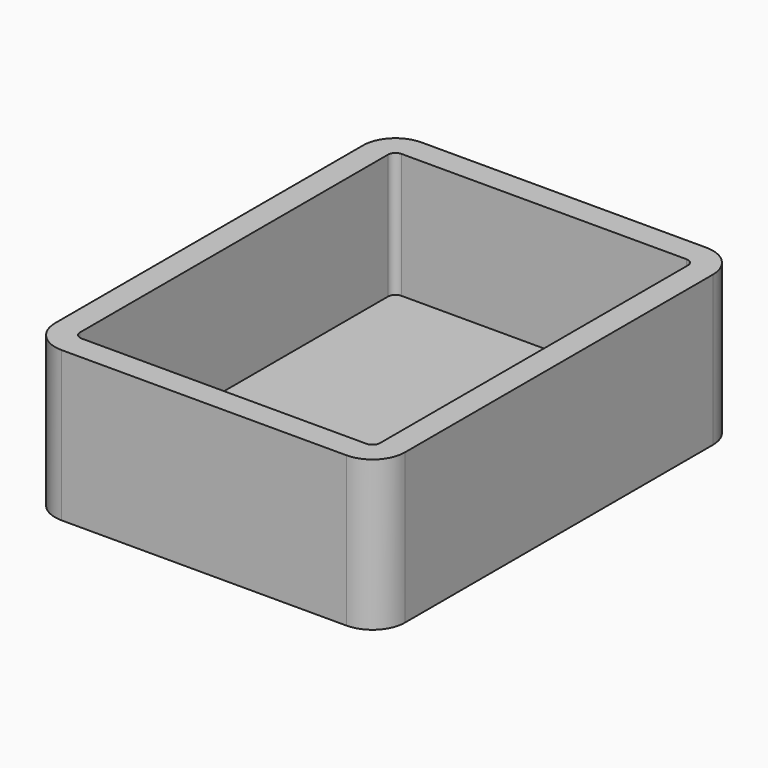
from build123d import *

# Parameters (mm, degrees)
F0_W     = 140
F0_H     = 180
F1_DEPTH = 60
F2_R     = 13
F3_T     = -10


with BuildPart() as f1:
    # F0 (on Top) → F1 (new body)
    with BuildSketch(Plane.XY):
        with Locations((46.801353, 43.477304)):
            Rectangle(F0_W, F0_H)
    extrude(amount=F1_DEPTH)

    # F2
    f2_edges = [f1.edges().sort_by_distance(p)[0] for p in [
        (-23.198647, 133.477304, 30),
        (116.801353, 133.477304, 30),
        (-23.198647, -46.522696, 30),
        (116.801353, -46.522696, 30),
    ]]
    fillet(f2_edges, radius=F2_R)

    # F3
    f3_openings = [f1.faces().sort_by_distance(p)[0] for p in [
        (46.801353, 43.477304, 60),
    ]]
    offset(amount=F3_T, openings=f3_openings)


solid = f1.part
